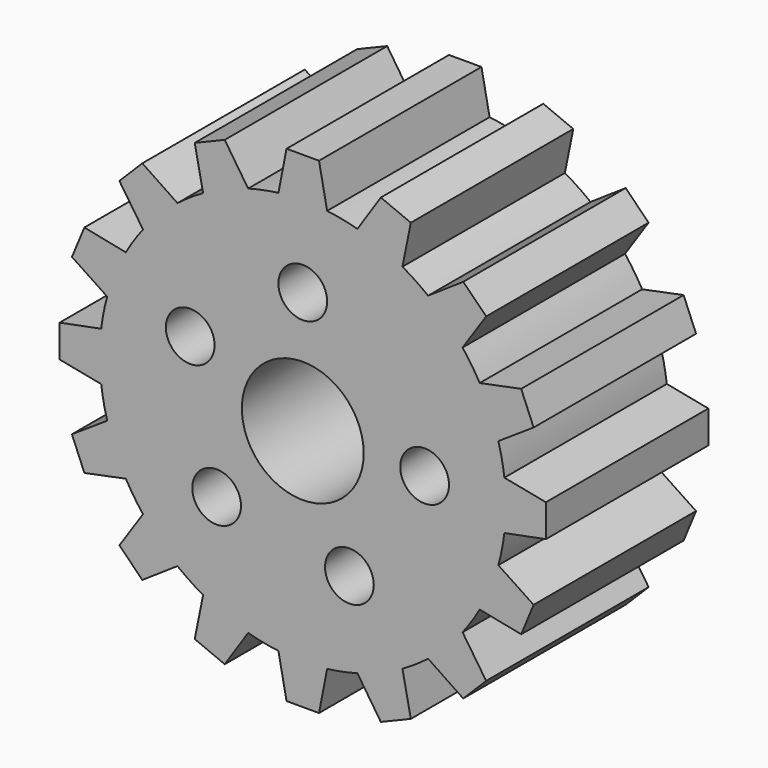
from build123d import *

# Parameters (mm, degrees)
F0_R     = 3
F0_R_2   = 7.5
F1_DEPTH = 25


with BuildPart() as f1:
    # F0 (on Front) → F1 (new body)
    with BuildSketch(Plane.XZ):
        with BuildLine():
            ThreePointArc((24.819347, -3), (24.954796, -1.502717), (25, 0))
            ThreePointArc((25, 0), (24.954796, 1.502717), (24.819347, 3))
            ThreePointArc((24.819347, 3), (24.519632, 4.877258), (24.078137, 6.726314))
            ThreePointArc((24.078137, 6.726314), (23.096988, 9.567086), (21.782037, 12.269592))
            ThreePointArc((21.782037, 12.269592), (20.78674, 13.889256), (19.671249, 15.428608))
            ThreePointArc((19.671249, 15.428608), (17.67767, 17.67767), (15.428608, 19.671249))
            ThreePointArc((15.428608, 19.671249), (13.889256, 20.78674), (12.269592, 21.782037))
            ThreePointArc((12.269592, 21.782037), (9.567086, 23.096988), (6.726314, 24.078137))
            ThreePointArc((6.726314, 24.078137), (4.877258, 24.519632), (3, 24.819347))
            ThreePointArc((3, 24.819347), (0, 25), (-3, 24.819347))
            ThreePointArc((-3, 24.819347), (-4.877258, 24.519632), (-6.726314, 24.078137))
            ThreePointArc((-6.726314, 24.078137), (-9.567086, 23.096988), (-12.269592, 21.782037))
            ThreePointArc((-12.269592, 21.782037), (-13.889256, 20.78674), (-15.428608, 19.671249))
            ThreePointArc((-15.428608, 19.671249), (-17.67767, 17.67767), (-19.671249, 15.428608))
            ThreePointArc((-19.671249, 15.428608), (-20.78674, 13.889256), (-21.782037, 12.269592))
            ThreePointArc((-21.782037, 12.269592), (-23.096988, 9.567086), (-24.078137, 6.726314))
            ThreePointArc((-24.078137, 6.726314), (-24.519632, 4.877258), (-24.819347, 3))
            ThreePointArc((-24.819347, 3), (-25, 0), (-24.819347, -3))
            ThreePointArc((-24.819347, -3), (-24.519632, -4.877258), (-24.078137, -6.726314))
            ThreePointArc((-24.078137, -6.726314), (-23.096988, -9.567086), (-21.782037, -12.269592))
            ThreePointArc((-21.782037, -12.269592), (-20.78674, -13.889256), (-19.671249, -15.428608))
            ThreePointArc((-19.671249, -15.428608), (-17.67767, -17.67767), (-15.428608, -19.671249))
            ThreePointArc((-15.428608, -19.671249), (-13.889256, -20.78674), (-12.269592, -21.782037))
            ThreePointArc((-12.269592, -21.782037), (-9.567086, -23.096988), (-6.726314, -24.078137))
            ThreePointArc((-6.726314, -24.078137), (-4.877258, -24.519632), (-3, -24.819347))
            ThreePointArc((-3, -24.819347), (0, -25), (3, -24.819347))
            ThreePointArc((3, -24.819347), (4.877258, -24.519632), (6.726314, -24.078137))
            ThreePointArc((6.726314, -24.078137), (9.567086, -23.096988), (12.269592, -21.782037))
            ThreePointArc((12.269592, -21.782037), (13.889256, -20.78674), (15.428608, -19.671249))
            ThreePointArc((15.428608, -19.671249), (17.67767, -17.67767), (19.671249, -15.428608))
            ThreePointArc((19.671249, -15.428608), (20.78674, -13.889256), (21.782037, -12.269592))
            ThreePointArc((21.782037, -12.269592), (23.096988, -9.567086), (24.078137, -6.726314))
            ThreePointArc((24.078137, -6.726314), (24.519632, -4.877258), (24.819347, -3))
        make_face()
        with Locations((-10.606602, -10.606602)):
            Circle(F0_R, mode=Mode.SUBTRACT)
        with Locations((5.740251, -13.858193)):
            Circle(F0_R, mode=Mode.SUBTRACT)
        with Locations((-13.858193, 5.740251)):
            Circle(F0_R, mode=Mode.SUBTRACT)
        Circle(F0_R_2, mode=Mode.SUBTRACT)
        with Locations((15, 0)):
            Circle(F0_R, mode=Mode.SUBTRACT)
        with Locations((0, 15)):
            Circle(F0_R, mode=Mode.SUBTRACT)
        with BuildLine():
            ThreePointArc((24.819347, 3), (24.954796, 1.502717), (25, 0))
            ThreePointArc((25, 0), (24.954796, -1.502717), (24.819347, -3))
            Line((24.819347, -3), (29.933259, -2))
            Line((29.933259, -2), (29.933259, 2))
            Line((29.933259, 2), (24.819347, 3))
        make_face()
        with BuildLine():
            ThreePointArc((21.782037, 12.269592), (23.096988, 9.567086), (24.078137, 6.726314))
            Line((24.078137, 6.726314), (28.420092, 9.607203))
            Line((28.420092, 9.607203), (26.889359, 13.302721))
            Line((26.889359, 13.302721), (21.782037, 12.269592))
        make_face()
        with BuildLine():
            Line((28.420092, -9.607203), (24.078137, -6.726314))
            ThreePointArc((24.078137, -6.726314), (23.096988, -9.567086), (21.782037, -12.269592))
            Line((21.782037, -12.269592), (26.889359, -13.302721))
            Line((26.889359, -13.302721), (28.420092, -9.607203))
        make_face()
        with BuildLine():
            ThreePointArc((15.428608, 19.671249), (17.67767, 17.67767), (19.671249, 15.428608))
            Line((19.671249, 15.428608), (22.580224, 19.751797))
            Line((22.580224, 19.751797), (19.751797, 22.580224))
            Line((19.751797, 22.580224), (15.428608, 19.671249))
        make_face()
        with BuildLine():
            Line((22.580224, -19.751797), (19.671249, -15.428608))
            ThreePointArc((19.671249, -15.428608), (17.67767, -17.67767), (15.428608, -19.671249))
            Line((15.428608, -19.671249), (19.751797, -22.580224))
            Line((19.751797, -22.580224), (22.580224, -19.751797))
        make_face()
        with BuildLine():
            ThreePointArc((6.726314, 24.078137), (9.567086, 23.096988), (12.269592, 21.782037))
            Line((12.269592, 21.782037), (13.302721, 26.889359))
            Line((13.302721, 26.889359), (9.607203, 28.420092))
            Line((9.607203, 28.420092), (6.726314, 24.078137))
        make_face()
        with BuildLine():
            Line((13.302721, -26.889359), (12.269592, -21.782037))
            ThreePointArc((12.269592, -21.782037), (9.567086, -23.096988), (6.726314, -24.078137))
            Line((6.726314, -24.078137), (9.607203, -28.420092))
            Line((9.607203, -28.420092), (13.302721, -26.889359))
        make_face()
        with BuildLine():
            ThreePointArc((-3, 24.819347), (0, 25), (3, 24.819347))
            Line((3, 24.819347), (2, 29.933259))
            Line((2, 29.933259), (-2, 29.933259))
            Line((-2, 29.933259), (-3, 24.819347))
        make_face()
        with BuildLine():
            Line((2, -29.933259), (3, -24.819347))
            ThreePointArc((3, -24.819347), (0, -25), (-3, -24.819347))
            Line((-3, -24.819347), (-2, -29.933259))
            Line((-2, -29.933259), (2, -29.933259))
        make_face()
        with BuildLine():
            ThreePointArc((-12.269592, 21.782037), (-9.567086, 23.096988), (-6.726314, 24.078137))
            Line((-6.726314, 24.078137), (-9.607203, 28.420092))
            Line((-9.607203, 28.420092), (-13.302721, 26.889359))
            Line((-13.302721, 26.889359), (-12.269592, 21.782037))
        make_face()
        with BuildLine():
            Line((-9.607203, -28.420092), (-6.726314, -24.078137))
            ThreePointArc((-6.726314, -24.078137), (-9.567086, -23.096988), (-12.269592, -21.782037))
            Line((-12.269592, -21.782037), (-13.302721, -26.889359))
            Line((-13.302721, -26.889359), (-9.607203, -28.420092))
        make_face()
        with BuildLine():
            ThreePointArc((-19.671249, 15.428608), (-17.67767, 17.67767), (-15.428608, 19.671249))
            Line((-15.428608, 19.671249), (-19.751797, 22.580224))
            Line((-19.751797, 22.580224), (-22.580224, 19.751797))
            Line((-22.580224, 19.751797), (-19.671249, 15.428608))
        make_face()
        with BuildLine():
            Line((-19.751797, -22.580224), (-15.428608, -19.671249))
            ThreePointArc((-15.428608, -19.671249), (-17.67767, -17.67767), (-19.671249, -15.428608))
            Line((-19.671249, -15.428608), (-22.580224, -19.751797))
            Line((-22.580224, -19.751797), (-19.751797, -22.580224))
        make_face()
        with BuildLine():
            ThreePointArc((-24.078137, 6.726314), (-23.096988, 9.567086), (-21.782037, 12.269592))
            Line((-21.782037, 12.269592), (-26.889359, 13.302721))
            Line((-26.889359, 13.302721), (-28.420092, 9.607203))
            Line((-28.420092, 9.607203), (-24.078137, 6.726314))
        make_face()
        with BuildLine():
            Line((-26.889359, -13.302721), (-21.782037, -12.269592))
            ThreePointArc((-21.782037, -12.269592), (-23.096988, -9.567086), (-24.078137, -6.726314))
            Line((-24.078137, -6.726314), (-28.420092, -9.607203))
            Line((-28.420092, -9.607203), (-26.889359, -13.302721))
        make_face()
        with BuildLine():
            ThreePointArc((-24.819347, -3), (-25, 0), (-24.819347, 3))
            Line((-24.819347, 3), (-29.933259, 2))
            Line((-29.933259, 2), (-29.933259, -2))
            Line((-29.933259, -2), (-24.819347, -3))
        make_face()
    extrude(amount=F1_DEPTH)


solid = f1.part
